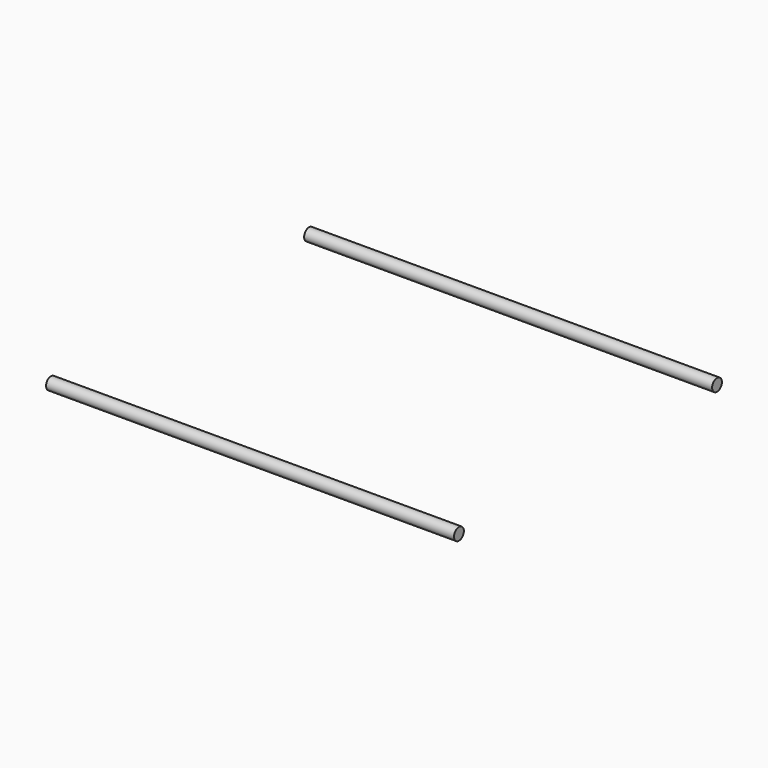
from build123d import *

# Parameters (mm, degrees)
F0_R     = 1.524
F1_DEPTH = 101.6


with BuildPart() as f1:
    # F0 (on Right) → F1 (new body)
    with BuildSketch(Plane.YZ):
        with Locations((-44.031653, 0)):
            Circle(F0_R)
        with Locations((36.296366, 0)):
            Circle(F0_R)
    extrude(amount=F1_DEPTH)


solid = f1.part
